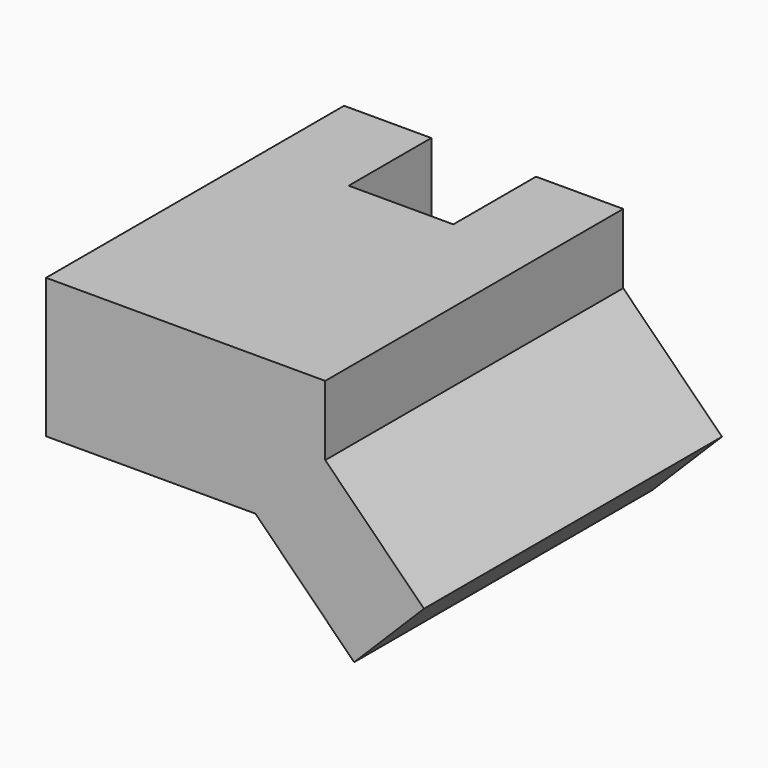
from build123d import *

# Parameters (mm, degrees)
F1_DEPTH = 25.4
F2_SIZE  = 12.7
F3_DEPTH = 25.4


with BuildPart() as f1:
    # F0 (on Top) → F1 (new body)
    with BuildSketch(Plane.XY):
        Polygon((-25.4, -33.8918231428), (25.4, -33.8918231428), (25.4, 33.8918231428), (9.525, 33.8918231428), (9.525, 15.0958231428), (-9.525, 15.0958231428), (-9.525, 33.8918231428), (-25.4, 33.8918231428), align=None)
    extrude(amount=F1_DEPTH)

    # F2
    f2_edges = [f1.edges().sort_by_distance(p)[0] for p in [
        (25.4, 0, 0),
    ]]
    chamfer(f2_edges, length=F2_SIZE)

    # F3 (add): a face of the model
    f3_faces = [f1.faces().sort_by_distance(p)[0] for p in [
        (19.05, 0, 6.35),
    ]]
    extrude(f3_faces, amount=F3_DEPTH)


solid = f1.part
